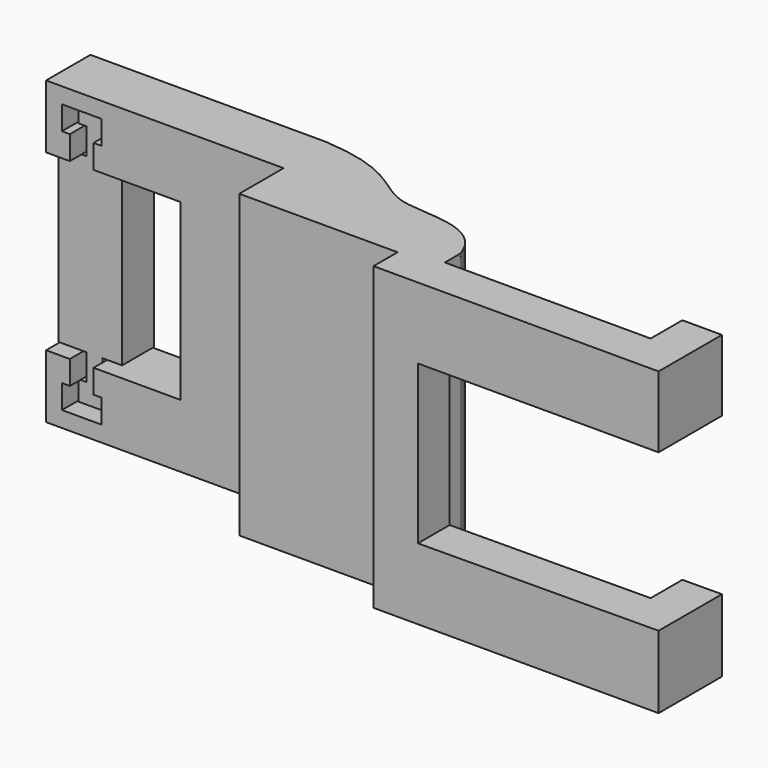
from build123d import *

# Parameters (mm, degrees)
PAD_DEPTH            = 38
POCKET_DEPTH         = 209.180233
POCKET001_DEPTH      = 0.001
POCKET001_DEPTH_BACK = -17.79843
PAD001_DEPTH         = 5


with BuildPart() as body:
    # Sketch → Pad (new body)
    with BuildSketch(Plane.XY):
        with BuildLine():
            Line((30, -7), (0, -7))
            Line((0, -7), (0, 0))
            Line((0, 0), (29.705568, 0))
            add(Edge.make_bspline(
                [(29.705568, 0), (38.986351, -0.628442), (40.938854, -7.674414), (53.163189, -4.61833), (55, -10.338793)],
                knots=[0, 0, 0, 0, 0.5, 1, 1, 1, 1], degree=3))
            Line((55, -10.338793), (55, -12.79743))
            Line((55, -12.79743), (81, -12.79743))
            Line((81, -12.79743), (81, -7.79743))
            Line((81, -7.79743), (86, -7.79743))
            Line((86, -7.79743), (86, -17.79743))
            Line((86, -17.79743), (50, -17.79743))
            Line((50, -17.79743), (50, -14))
            Line((50, -14), (30, -14))
            Line((30, -14), (30, -7))
        make_face()
    extrude(amount=PAD_DEPTH)

    # Sketch001 (on DatumPlane) → Pocket (cut, through all)
    with BuildSketch(Plane(origin=(0, 0, 30), x_dir=(0, 0, 1), z_dir=(0, 1, 0))):
        Polygon((0, 17), (-11, 17), (-11, 0), (0, 0), (0, 3), (3, 3), (3, 2), (6, 2), (6, 7), (3, 7), (3, 6), (0, 6), (0, 8), align=None)
    pocket = extrude(amount=-POCKET_DEPTH, mode=Mode.SUBTRACT)

    # Mirrored: Pocket across Sketch001 Axis3
    add(pocket.mirror(Plane(origin=(41.528492, 0, 19), x_dir=(0, 1, 0), z_dir=(0, 0, 1))), mode=Mode.SUBTRACT)

    # Sketch003 → Pocket001 (cut, two sides)
    with BuildSketch(Plane(origin=(-10, 0, 0), x_dir=(1, 0, 0), z_dir=(0, -1, 0))) as pocket001_sk:
        Polygon((65.602734, 29), (97.224255, 29), (97.224255, 9.169783), (65.602734, 9), align=None)
    extrude(amount=-POCKET001_DEPTH, mode=Mode.SUBTRACT)
    extrude(pocket001_sk.sketch, amount=-POCKET001_DEPTH_BACK, mode=Mode.SUBTRACT)


with BuildPart() as obj1:
    # Sketch004 → Pad001 (new body)
    with BuildSketch(Plane.XZ):
        Polygon((0, 29.897505), (3.5, 29.897505), (3.5, 33.221244), (2.5, 33.221244), (2.5, 35.721244), (6.5, 35.721244), (6.5, 33.221244), (5.5, 33.221244), (5.5, 29.897505), (8, 29.897505), (8, 19), (0, 19), align=None)
    pad001 = extrude(amount=PAD001_DEPTH)

    # Mirrored001: Pad001 across Sketch004 Axis2
    add(pad001.mirror(Plane(origin=(-14.053349, 0, 19), x_dir=(0, -1, 0), z_dir=(0, 0, 1))))


solid = Compound([body.part, obj1.part])
